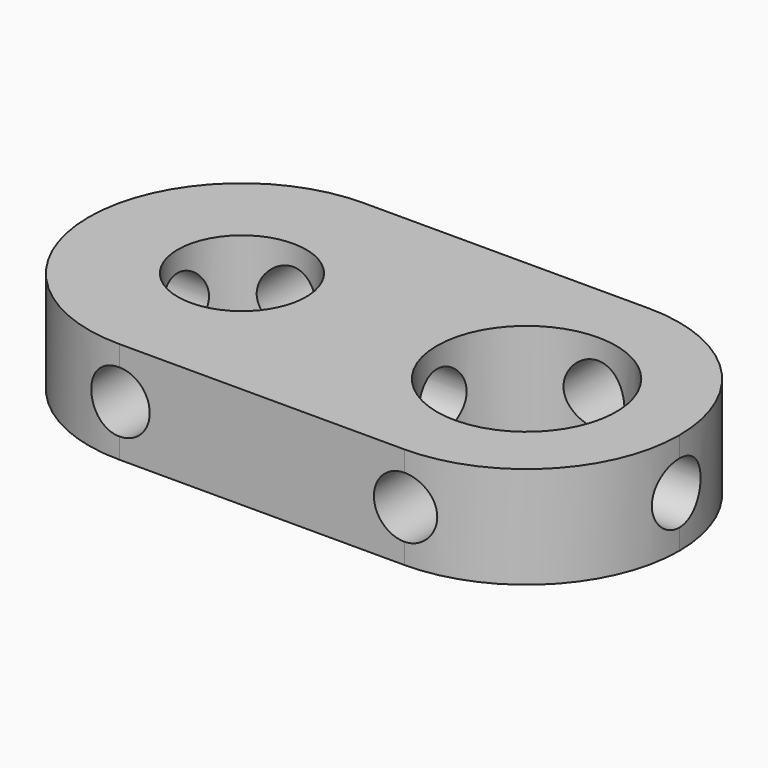
from build123d import *

# Parameters (mm, degrees)
F1_DEPTH   = 6.35
F4_D       = 3.7973
F4_ON_F3_D = 3.7973
F5_DEPTH   = 25.4
F6_D       = 8.001
F7_D       = 11.176


with BuildPart() as f1:
    # F0 (on Top) → F1 (new body)
    with BuildSketch(Plane.XY):
        with BuildLine():
            Line((29.8951390445, 46.4425103247), (12.1151390445, 46.4425103247))
            ThreePointArc((12.1151390445, 46.4425103247), (5.3799469537, 43.6527024155), (2.5901390445, 36.9175103247))
            ThreePointArc((2.5901390445, 36.9175103247), (5.3799469537, 30.1823182339), (12.1151390445, 27.3925103247))
            Line((12.1151390445, 27.3925103247), (29.8951390445, 27.3925103247))
            ThreePointArc((29.8951390445, 27.3925103247), (36.6303311353, 30.1823182339), (39.4201390445, 36.9175103247))
            ThreePointArc((39.4201390445, 36.9175103247), (36.6303311353, 43.6527024155), (29.8951390445, 46.4425103247))
        make_face()
        with BuildLine():
            Line((12.1151390445, 46.4425103247), (2.5901390445, 46.4425103247))
            Line((2.5901390445, 46.4425103247), (2.5901390445, 36.9175103247))
            ThreePointArc((2.5901390445, 36.9175103247), (5.3799469537, 43.6527024155), (12.1151390445, 46.4425103247))
        make_face()
        with BuildLine():
            ThreePointArc((12.1151390445, 27.3925103247), (5.3799469537, 30.1823182339), (2.5901390445, 36.9175103247))
            Line((2.5901390445, 36.9175103247), (2.5901390445, 27.3925103247))
            Line((2.5901390445, 27.3925103247), (12.1151390445, 27.3925103247))
        make_face()
        with BuildLine():
            Line((39.4201390445, 27.3925103247), (39.4201390445, 36.9175103247))
            ThreePointArc((39.4201390445, 36.9175103247), (36.6303311353, 30.1823182339), (29.8951390445, 27.3925103247))
            Line((29.8951390445, 27.3925103247), (39.4201390445, 27.3925103247))
        make_face()
        with BuildLine():
            Line((39.4201390445, 46.4425103247), (29.8951390445, 46.4425103247))
            ThreePointArc((29.8951390445, 46.4425103247), (36.6303311353, 43.6527024155), (39.4201390445, 36.9175103247))
            Line((39.4201390445, 36.9175103247), (39.4201390445, 46.4425103247))
        make_face()
    extrude(amount=-F1_DEPTH)

    # F4 (through all)
    with Locations(Plane(origin=(2.5901390445, 0, 0), x_dir=(0, -1, 0), z_dir=(-1, 0, 0))):
        with Locations((-36.9175103247, -3.175)):
            Hole(F4_D / 2)

    # F4 on F3 (through all)
    with Locations(Plane(origin=(0, 46.4425103247, 0), x_dir=(-1, 0, 0), z_dir=(0, 1, 0))):
        with Locations((-12.1151390445, -3.175), (-29.8951390445, -3.175)):
            Hole(F4_ON_F3_D / 2)

    # F0 (on Top) → F5 (cut)
    with BuildSketch(Plane.XY):
        with BuildLine():
            Line((12.1151390445, 46.4425103247), (2.5901390445, 46.4425103247))
            Line((2.5901390445, 46.4425103247), (2.5901390445, 36.9175103247))
            ThreePointArc((2.5901390445, 36.9175103247), (5.3799469537, 43.6527024155), (12.1151390445, 46.4425103247))
        make_face()
        with BuildLine():
            ThreePointArc((12.1151390445, 27.3925103247), (5.3799469537, 30.1823182339), (2.5901390445, 36.9175103247))
            Line((2.5901390445, 36.9175103247), (2.5901390445, 27.3925103247))
            Line((2.5901390445, 27.3925103247), (12.1151390445, 27.3925103247))
        make_face()
        with BuildLine():
            Line((39.4201390445, 46.4425103247), (29.8951390445, 46.4425103247))
            ThreePointArc((29.8951390445, 46.4425103247), (36.6303311353, 43.6527024155), (39.4201390445, 36.9175103247))
            Line((39.4201390445, 36.9175103247), (39.4201390445, 46.4425103247))
        make_face()
        with BuildLine():
            Line((39.4201390445, 27.3925103247), (39.4201390445, 36.9175103247))
            ThreePointArc((39.4201390445, 36.9175103247), (36.6303311353, 30.1823182339), (29.8951390445, 27.3925103247))
            Line((29.8951390445, 27.3925103247), (39.4201390445, 27.3925103247))
        make_face()
    extrude(amount=-F5_DEPTH, mode=Mode.SUBTRACT)

    # F6 (through all)
    with Locations(Plane.XY):
        with Locations((12.1151390445, 36.9564630091)):
            Hole(F6_D / 2)

    # F7 (through all)
    with Locations(Plane.XY):
        with Locations((29.8951390445, 36.9175103247)):
            Hole(F7_D / 2)


solid = f1.part
